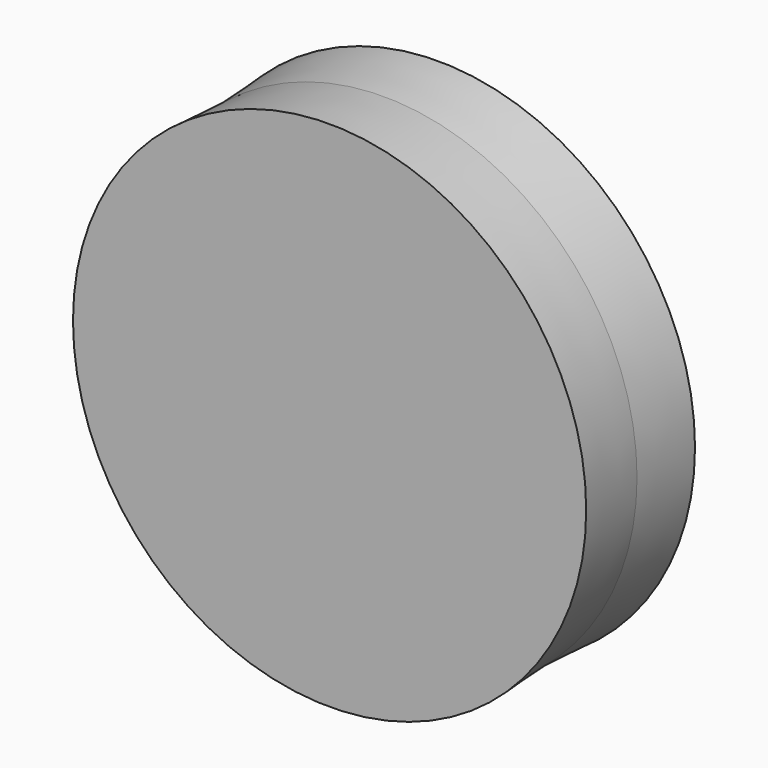
from build123d import *

# Parameters (mm, degrees)
F0_R     = 47.2492832015
F1_DEPTH = 12.7
F1_TAPER = -3


with BuildPart() as f1:
    # F0 (on Front) → F1 (new body, symmetric)
    with BuildSketch(Plane.XZ):
        Circle(F0_R)
    extrude(amount=F1_DEPTH, both=True, taper=F1_TAPER)


solid = f1.part
